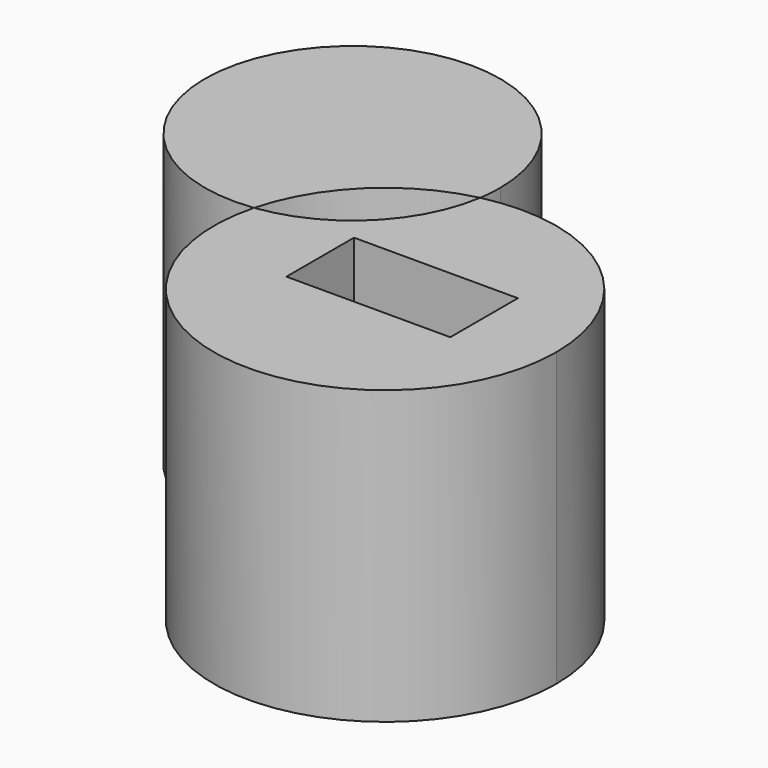
from build123d import *

# Parameters (mm, degrees)
F1_DEPTH = 50
F2_W     = 28.0598
F2_H     = 14.462667
F3_DEPTH = 77


with BuildPart() as f1:
    # F0 (on Top) → F1 (new body)
    with BuildSketch(Plane.XY):
        with BuildLine():
            ThreePointArc((-28.357509, 7.39738), (-20.421797, 21.019509), (-6.576468, 28.559055))
            ThreePointArc((-6.576468, 28.559055), (-6.347003, 30.51446), (-6.27036, 32.481791))
            ThreePointArc((-6.27036, 32.481791), (-50.537185, 49.193088), (-28.357509, 7.39738))
        make_face()
        with BuildLine():
            ThreePointArc((-28.357509, 7.39738), (-3.729, -29.068266), (29.306476, 0))
            ThreePointArc((29.306476, 0), (18.250157, 22.930358), (-6.576468, 28.559055))
            ThreePointArc((-6.576468, 28.559055), (-13.936713, 14.344617), (-28.357509, 7.39738))
        make_face()
    extrude(amount=F1_DEPTH)

    # F2 (on face) → F3 (cut)
    with BuildSketch(Plane.XY.offset(50)):
        with Locations((1.496094, 1.774865)):
            Rectangle(F2_W, F2_H)
    extrude(amount=-F3_DEPTH, mode=Mode.SUBTRACT)


solid = f1.part
